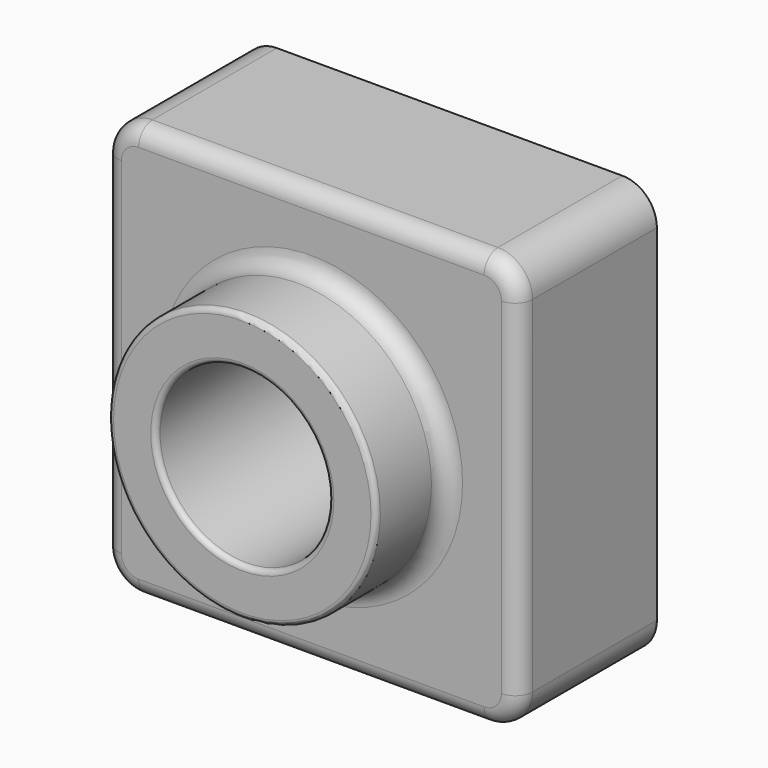
from build123d import *

# Parameters (mm, degrees)
F0_W     = 120
F0_H     = 120
F1_DEPTH = 50
F2_R     = 38.7502534615
F3_DEPTH = 25
F4_R     = 25
F5_DEPTH = 75.001
F6_R     = 10
F7_R     = 1.5
F8_R     = 5
F9_T     = -2


with BuildPart() as f1:
    # F0 (on Front) → F1 (new body)
    with BuildSketch(Plane.XZ):
        with Locations((60, 60)):
            Rectangle(F0_W, F0_H)
    extrude(amount=F1_DEPTH)

    # F2 (on face) → F3 (join)
    with BuildSketch(Plane.XZ.offset(50)):
        with Locations((60, 60)):
            Circle(F2_R)
    extrude(amount=F3_DEPTH)

    # F4 (on face) → F5 (cut, through all)
    with BuildSketch(Plane.XZ.offset(75)):
        with Locations((60, 60)):
            Circle(F4_R)
    extrude(amount=-F5_DEPTH, mode=Mode.SUBTRACT)

    # F6
    f6_edges = [f1.edges().sort_by_distance(p)[0] for p in [
        (120, -25, 0),
        (0, -25, 0),
        (0, -25, 120),
        (120, -25, 120),
    ]]
    fillet(f6_edges, radius=F6_R)

    # F7
    f7_edges = [f1.edges().sort_by_distance(p)[0] for p in [
        (21.249747, -75, 60),
        (35, -75, 60),
    ]]
    fillet(f7_edges, radius=F7_R)

    # F8
    f8_edges = [f1.edges().sort_by_distance(p)[0] for p in [
        (0, -50, 60),
        (2.928932, -50, 117.071068),
        (2.928932, -50, 2.928932),
        (60, -50, 120),
        (60, -50, 0),
        (117.071068, -50, 117.071068),
        (117.071068, -50, 2.928932),
        (120, -50, 60),
        (21.249747, -50, 60),
    ]]
    fillet(f8_edges, radius=F8_R)

    # F9
    f9_openings = [f1.faces().sort_by_distance(p)[0] for p in [
        (1.697056, 0, 60),
    ]]
    offset(amount=F9_T, openings=f9_openings)


solid = f1.part
